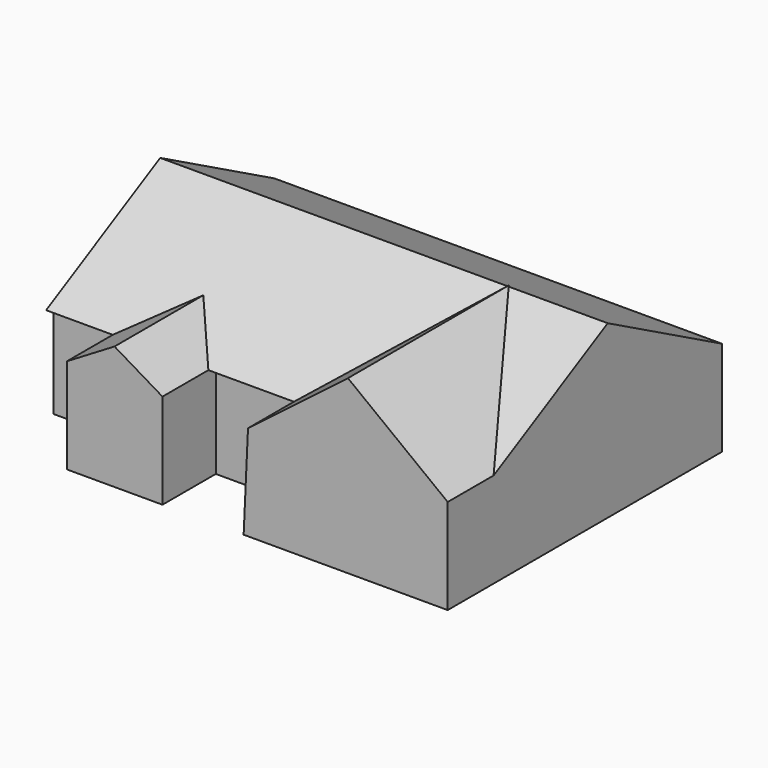
from build123d import *

# Parameters (mm, degrees)
F0_W     = 119.3591766059
F0_H     = 25.3895912319
F1_DEPTH = 73.66
F3_DEPTH = 119.38
F5_DEPTH = 35.814
F6_DEPTH = 17.78


with BuildPart() as f1:
    # F0 (on Front) → F1 (new body)
    with BuildSketch(Plane.XZ):
        with Locations((-5.246559158, 12.694795616)):
            Rectangle(F0_W, F0_H)
    extrude(amount=F1_DEPTH)

    # F2 (on face) → F3 (join)
    with BuildSketch(Plane.YZ.offset(54.433029145)):
        Polygon((-38.0689874291, 25.3895912319), (0, 25.3895912319), (-38.0689874291, 45.67636922), align=None)
        Polygon((-76.133325696, 25.3895912319), (-38.0689874291, 25.3895912319), (-38.0689874291, 45.67636922), align=None)
    extrude(amount=-F3_DEPTH)

    # F4 (on face) → F5 (join)
    with BuildSketch(Plane.XZ.offset(73.66)):
        Polygon((-34.4408005476, 25.3895912319), (-21.6549783945, 25.3895912319), (-34.4408005476, 33.0080874264), align=None)
        Polygon((27.8254915029, 25.3895912319), (54.433029145, 25.3895912319), (27.8254915029, 45.8136871457), align=None)
        Polygon((1.1622435413, 25.3895912319), (27.8254915029, 25.3895912319), (27.8254915029, 45.8136871457), align=None)
        Polygon((-47.1603758633, 25.3895912319), (-34.4408005476, 25.3895912319), (-34.4408005476, 33.0080874264), align=None)
    extrude(amount=-F5_DEPTH)

    # F4 (on face) → F6 (join)
    with BuildSketch(Plane.XZ.offset(73.66)):
        Polygon((54.433029145, 0), (54.433029145, 25.3895912319), (27.8254915029, 25.3895912319), (1.1622435413, 25.3895912319), (0, 0), align=None)
        Polygon((27.8254915029, 25.3895912319), (54.433029145, 25.3895912319), (27.8254915029, 45.8136871457), align=None)
        Polygon((1.1622435413, 25.3895912319), (27.8254915029, 25.3895912319), (27.8254915029, 45.8136871457), align=None)
        Polygon((-34.4408005476, 33.0080874264), (-47.1603758633, 25.3895912319), (-34.4408005476, 25.3895912319), align=None)
        Polygon((-34.4408005476, 25.3895912319), (-47.1603758633, 25.3895912319), (-47.1603758633, 0), (-21.6549783945, 0), (-21.6549783945, 25.3895912319), align=None)
        Polygon((-34.4408005476, 33.0080874264), (-34.4408005476, 25.3895912319), (-21.6549783945, 25.3895912319), align=None)
    extrude(amount=F6_DEPTH)


solid = f1.part
